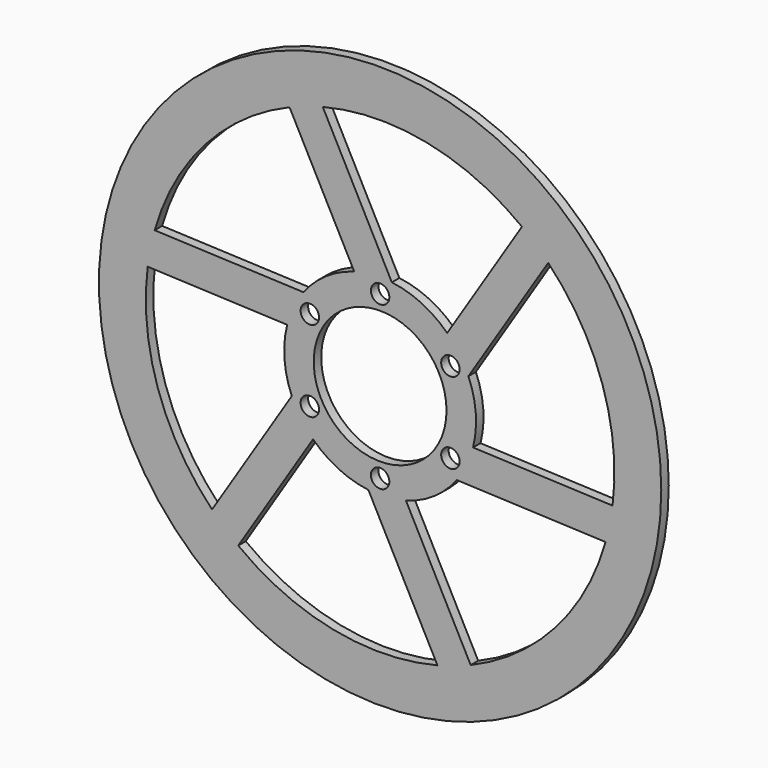
from build123d import *

# Parameters (mm, degrees)
F1_R     = 76.2
F1_R_2   = 17.9959
F2_DEPTH = 2.54
F0_D     = 5.0038


with BuildPart() as f2:
    # F1 (on Front) → F2 (new body)
    with BuildSketch(Plane.XZ):
        Circle(F1_R)
        with BuildLine():
            Line((-38.44313, -50.540833), (-18.178202, -18.584719))
            ThreePointArc((-18.178202, -18.584719), (-11.270308, -23.426886), (-3.175655, -25.80221))
            Line((-3.175655, -25.80221), (15.538346, -61.569553))
            ThreePointArc((15.538346, -61.569553), (-12.710839, -62.214826), (-38.44313, -50.540833))
        make_face(mode=Mode.SUBTRACT)
        with BuildLine():
            Line((-62.99121, 8.02231), (-25.18394, 6.450426))
            ThreePointArc((-25.18394, 6.450426), (-25.923432, -1.95307), (-23.933196, -10.150907))
            Line((-23.933196, -10.150907), (-45.551624, -44.241379))
            ThreePointArc((-45.551624, -44.241379), (-60.235039, -20.099503), (-62.99121, 8.02231))
        make_face(mode=Mode.SUBTRACT)
        with BuildLine():
            Line((24.54808, -58.563143), (7.005737, -25.035144))
            ThreePointArc((7.005737, -25.035144), (14.653124, -21.473816), (20.757542, -15.651302))
            Line((20.757542, -15.651302), (61.08997, -17.328174))
            ThreePointArc((61.08997, -17.328174), (47.5242, -42.115323), (24.54808, -58.563143))
        make_face(mode=Mode.SUBTRACT)
        with BuildLine():
            ThreePointArc((-61.08997, 17.328174), (-47.5242, 42.115323), (-24.54808, 58.563143))
            Line((-24.54808, 58.563143), (-7.005737, 25.035144))
            ThreePointArc((-7.005737, 25.035144), (-14.653124, 21.473816), (-20.757542, 15.651302))
            Line((-20.757542, 15.651302), (-61.08997, 17.328174))
        make_face(mode=Mode.SUBTRACT)
        Circle(F1_R_2, mode=Mode.SUBTRACT)
        with BuildLine():
            Line((62.99121, -8.02231), (25.18394, -6.450426))
            ThreePointArc((25.18394, -6.450426), (25.923432, 1.95307), (23.933196, 10.150907))
            Line((23.933196, 10.150907), (45.551624, 44.241379))
            ThreePointArc((45.551624, 44.241379), (60.235039, 20.099503), (62.99121, -8.02231))
        make_face(mode=Mode.SUBTRACT)
        with BuildLine():
            ThreePointArc((18.178202, 18.584719), (11.270308, 23.426886), (3.175655, 25.80221))
            Line((3.175655, 25.80221), (-15.538346, 61.569553))
            ThreePointArc((-15.538346, 61.569553), (12.710839, 62.214826), (38.44313, 50.540833))
            Line((38.44313, 50.540833), (18.178202, 18.584719))
        make_face(mode=Mode.SUBTRACT)
    extrude(amount=F2_DEPTH)

    # F0 (through all)
    with Locations(Plane(origin=(0, 0, 0), x_dir=(1, 0, 0), z_dir=(0, 1, 0))):
        with Locations((19.049441, 10.9982), (19.049441, -10.9982), (0, -21.9964), (-19.049441, -10.9982), (-19.049441, 10.9982), (0, 21.9964)):
            Hole(F0_D / 2)


solid = f2.part
